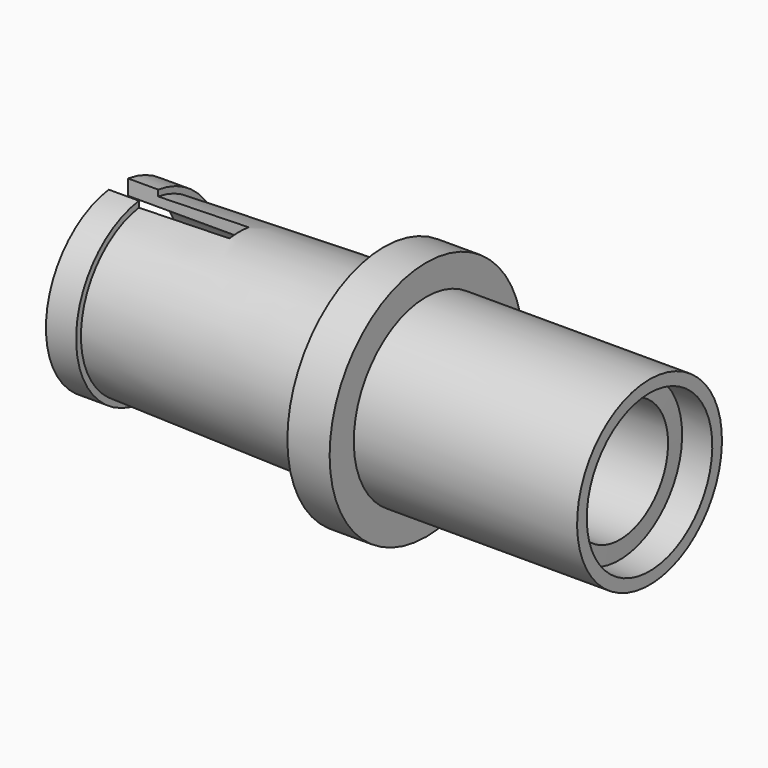
from build123d import *

# Parameters (mm, degrees)
F2_W     = 0.508
F2_H     = 0.6759034795
F3_DEPTH = 5.08


with BuildPart() as f1:
    # F0 (on Front) → F1 (revolve)
    with BuildSketch(Plane.XZ):
        Polygon((0, 2.413), (0, 0), (1.5435320418, 0), (1.5435320418, 2.5402503696), (9.9255320418, 2.5402503696), (9.906, 3.302), (11.176, 3.302), (11.176, 3.81), (1.778, 3.81), (1.778, 5.08), (0, 5.08), (0, 3.81), (-9.906, 3.556), (-9.906, 3.81), (-11.176, 3.81), (-11.176, 3.175), (-4.826, 3.175), (-4.826, 2.413), align=None)
    revolve(axis=Axis((0.7717660209, 0, 0), (-1, 0, 0)))

    # F2 (on face) → F3 (cut)
    with BuildSketch(Plane(origin=(-11.176, 0, 0), x_dir=(0, -1, 0), z_dir=(-1, 0, 0))):
        with Locations((-0.254, 3.4720482603)):
            Rectangle(F2_W, F2_H)
        with Locations((0.254, 3.4720482603)):
            Rectangle(F2_W, F2_H)
        with Locations((0.254, -3.4720482603)):
            Rectangle(F2_W, F2_H)
        with Locations((-0.254, -3.4720482603)):
            Rectangle(F2_W, F2_H)
    extrude(amount=-F3_DEPTH, mode=Mode.SUBTRACT)


solid = f1.part
